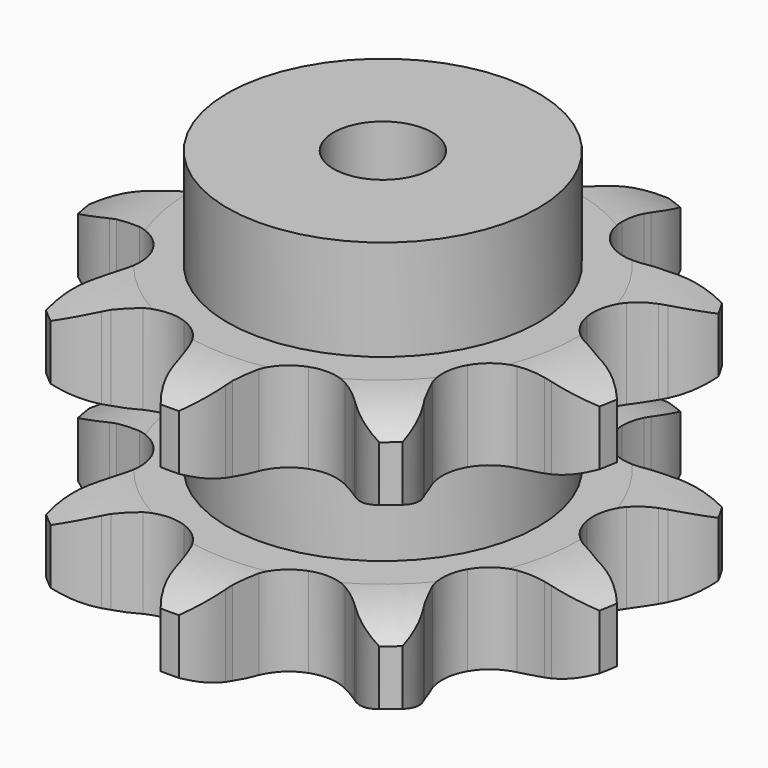
from build123d import *

# Parameters (mm, degrees)
PAD_DEPTH         = 54.6
SKETCH001_R       = 31.5
PAD001_DEPTH      = 75
SKETCH002_R       = 10
POCKET_DEPTH      = 0.001
POCKET_DEPTH_BACK = -75.001


with BuildPart() as part:
    # Sprocket → Pad (new body)
    with BuildSketch(Plane.XY):
        with BuildLine():
            ThreePointArc((-19.113954, 52.515156), (-14.399084, 49.678281), (-10.893043, 45.437345))
            Line((-10.893043, 45.437345), (-10.160753, 44.16328))
            ThreePointArc((-10.160753, 44.16328), (-8.776498, 42.01808), (-7.179453, 40.026225))
            ThreePointArc((-7.179453, 40.026225), (-3.934557, 37.646969), (0, 36.80467))
            ThreePointArc((0, 36.80467), (3.934557, 37.646969), (7.179453, 40.026225))
            ThreePointArc((7.179453, 40.026225), (8.776498, 42.01808), (10.160753, 44.16328))
            Line((10.160753, 44.16328), (10.893043, 45.437345))
            ThreePointArc((10.893043, 45.437345), (14.399084, 49.678281), (19.113954, 52.515156))
            ThreePointArc((19.113954, 52.515156), (20.902246, 47.311324), (20.862007, 41.808939))
            Line((20.862007, 41.808939), (20.604021, 40.362241))
            ThreePointArc((20.604021, 40.362241), (20.285513, 37.829141), (20.228582, 35.27673))
            ThreePointArc((20.228582, 35.27673), (21.18496, 31.368336), (23.657586, 28.194013))
            ThreePointArc((23.657586, 28.194013), (27.213051, 26.310167), (31.228141, 26.047004))
            Line((31.228141, 26.047004), (36.171197, 27.299829))
            ThreePointArc((36.171197, 27.299829), (36.857422, 27.562673), (37.551117, 27.805112))
            ThreePointArc((37.551117, 27.805112), (42.962922, 28.800219), (48.39823, 27.942731))
            ThreePointArc((48.39823, 27.942731), (46.423182, 22.806872), (42.855492, 18.617666))
            Line((42.855492, 18.617666), (41.727944, 17.675261))
            ThreePointArc((41.727944, 17.675261), (39.855708, 15.939527), (38.171437, 14.020861))
            ThreePointArc((38.171437, 14.020861), (36.391798, 10.41211), (36.245524, 6.391064))
            ThreePointArc((36.245524, 6.391064), (37.758255, 2.662545), (40.664835, -0.1199))
            Line((40.664835, -0.1199), (45.256737, -2.337515))
            ThreePointArc((45.256737, -2.337515), (45.951368, -2.577261), (46.638606, -2.837441))
            ThreePointArc((46.638606, -2.837441), (51.423931, -5.553786), (55.036436, -9.704409))
            ThreePointArc((55.036436, -9.704409), (50.222195, -12.369168), (44.796416, -13.28502))
            Line((44.796416, -13.28502), (43.326899, -13.28217))
            ThreePointArc((43.326899, -13.28217), (40.776974, -13.408369), (38.253454, -13.795524))
            ThreePointArc((38.253454, -13.795524), (34.57051, -15.416058), (31.873779, -18.402335))
            ThreePointArc((31.873779, -18.402335), (30.635953, -22.230911), (31.074001, -26.230701))
            Line((31.074001, -26.230701), (33.166146, -30.88111))
            ThreePointArc((33.166146, -30.88111), (33.544158, -31.511267), (33.903373, -32.152325))
            ThreePointArc((33.903373, -32.152325), (35.823112, -37.309113), (35.922483, -42.810748))
            ThreePointArc((35.922483, -42.810748), (30.521685, -41.757538), (25.7766, -38.971497))
            Line((25.7766, -38.971497), (24.652716, -38.024726))
            ThreePointArc((24.652716, -38.024726), (22.61824, -36.48234), (20.436254, -35.156831))
            ThreePointArc((20.436254, -35.156831), (16.573296, -34.030881), (12.587938, -34.585077))
            ThreePointArc((12.587938, -34.585077), (9.178748, -36.722276), (6.943297, -40.067865))
            Line((6.943297, -40.067865), (5.556747, -44.97509))
            ThreePointArc((5.556747, -44.97509), (5.441264, -45.7008), (5.304375, -46.422778))
            ThreePointArc((5.304375, -46.422778), (3.46026, -51.607091), (0, -55.885462))
            ThreePointArc((0, -55.885462), (-3.46026, -51.607091), (-5.304375, -46.422778))
            Line((-5.304375, -46.422778), (-5.556747, -44.97509))
            ThreePointArc((-5.556747, -44.97509), (-6.123819, -42.485819), (-6.943297, -40.067865))
            ThreePointArc((-6.943297, -40.067865), (-9.178748, -36.722276), (-12.587938, -34.585077))
            ThreePointArc((-12.587938, -34.585077), (-16.573296, -34.030881), (-20.436254, -35.156831))
            Line((-20.436254, -35.156831), (-24.652716, -38.024726))
            ThreePointArc((-24.652716, -38.024726), (-25.207658, -38.506421), (-25.7766, -38.971497))
            ThreePointArc((-25.7766, -38.971497), (-30.521685, -41.757538), (-35.922483, -42.810748))
            ThreePointArc((-35.922483, -42.810748), (-35.823112, -37.309113), (-33.903373, -32.152325))
            Line((-33.903373, -32.152325), (-33.166146, -30.88111))
            ThreePointArc((-33.166146, -30.88111), (-32.000475, -28.609711), (-31.074001, -26.230701))
            ThreePointArc((-31.074001, -26.230701), (-30.635953, -22.230911), (-31.873779, -18.402335))
            ThreePointArc((-31.873779, -18.402335), (-34.57051, -15.416058), (-38.253454, -13.795524))
            Line((-38.253454, -13.795524), (-43.326899, -13.28217))
            ThreePointArc((-43.326899, -13.28217), (-44.061636, -13.29446), (-44.796416, -13.28502))
            ThreePointArc((-44.796416, -13.28502), (-50.222195, -12.369168), (-55.036436, -9.704409))
            ThreePointArc((-55.036436, -9.704409), (-51.423931, -5.553786), (-46.638606, -2.837441))
            Line((-46.638606, -2.837441), (-45.256737, -2.337515))
            ThreePointArc((-45.256737, -2.337515), (-42.903754, -1.346801), (-40.664835, -0.1199))
            ThreePointArc((-40.664835, -0.1199), (-37.758255, 2.662545), (-36.245524, 6.391064))
            ThreePointArc((-36.245524, 6.391064), (-36.391798, 10.41211), (-38.171437, 14.020861))
            Line((-38.171437, 14.020861), (-41.727944, 17.675261))
            ThreePointArc((-41.727944, 17.675261), (-42.298686, 18.138127), (-42.855492, 18.617666))
            ThreePointArc((-42.855492, 18.617666), (-46.423182, 22.806872), (-48.39823, 27.942731))
            ThreePointArc((-48.39823, 27.942731), (-42.962922, 28.800219), (-37.551117, 27.805112))
            Line((-37.551117, 27.805112), (-36.171197, 27.299829))
            ThreePointArc((-36.171197, 27.299829), (-33.731889, 26.546292), (-31.228141, 26.047004))
            ThreePointArc((-31.228141, 26.047004), (-27.213051, 26.310167), (-23.657586, 28.194013))
            ThreePointArc((-23.657586, 28.194013), (-21.18496, 31.368336), (-20.228582, 35.27673))
            Line((-20.228582, 35.27673), (-20.604021, 40.362241))
            ThreePointArc((-20.604021, 40.362241), (-20.74371, 41.083682), (-20.862007, 41.808939))
            ThreePointArc((-20.862007, 41.808939), (-20.902246, 47.311324), (-19.113954, 52.515156))
        make_face()
    extrude(amount=PAD_DEPTH)

    # Sketch → Groove (revolve, cut)
    with BuildSketch(Plane.XZ):
        with BuildLine():
            ThreePointArc((39.448368, 0), (46.931683, 0.887302), (54, 3.5))
            Line((54, 3.5), (54, 14.7))
            ThreePointArc((54, 14.7), (46.931683, 17.312698), (39.448368, 18.2))
            Line((31.5, 18.2), (39.448368, 18.2))
            Line((31.5, 36.4), (31.5, 18.2))
            Line((39.448368, 36.4), (31.5, 36.4))
            ThreePointArc((39.448368, 36.4), (46.931683, 37.287302), (54, 39.9))
            Line((54, 39.9), (54, 51.1))
            ThreePointArc((54, 51.1), (46.931683, 53.712698), (39.448368, 54.6))
            Line((39.448368, 54.6), (64, 54.6))
            Line((64, 54.6), (64, 0))
            Line((39.448368, 0), (64, 0))
        make_face()
    revolve(axis=Axis((0, 0, 0), (0, 0, 1)), mode=Mode.SUBTRACT)

    # Sketch001 → Pad001 (join)
    with BuildSketch(Plane.XY):
        Circle(SKETCH001_R)
    extrude(amount=PAD001_DEPTH)

    # Sketch002 → Pocket (cut, two sides)
    with BuildSketch(Plane.XY) as pocket_sk:
        Circle(SKETCH002_R)
    extrude(amount=-POCKET_DEPTH, mode=Mode.SUBTRACT)
    extrude(pocket_sk.sketch, amount=-POCKET_DEPTH_BACK, mode=Mode.SUBTRACT)


solid = part.part
